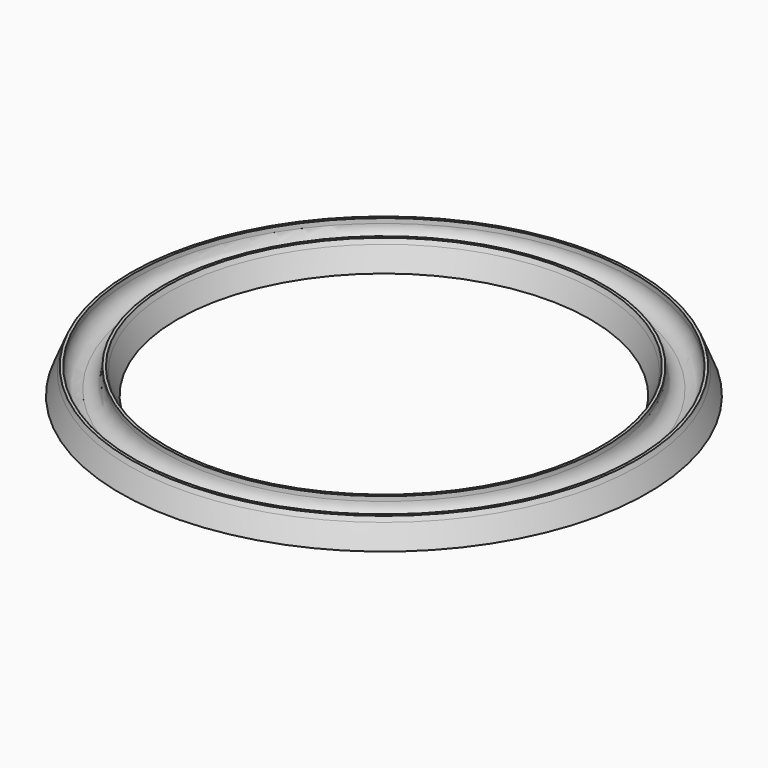
from build123d import *


with BuildPart() as f1:
    # F0 (on Front) → F1 (revolve)
    with BuildSketch(Plane.XZ):
        with BuildLine():
            ThreePointArc((-50, -3.25), (-52.298097, -2.298097), (-53.25, 0))
            Line((-53.25, 0), (-54.25, 0))
            Line((-54.25, 0), (-56.113961, -4.5))
            Line((-56.113961, -4.5), (-50, -4.5))
            Line((-50, -4.5), (-50, -3.25))
        make_face()
        with BuildLine():
            Line((-43.886039, -4.5), (-45.75, 0))
            Line((-45.75, 0), (-46.75, 0))
            ThreePointArc((-46.75, 0), (-47.701903, -2.298097), (-50, -3.25))
            Line((-50, -3.25), (-50, -4.5))
            Line((-50, -4.5), (-43.886039, -4.5))
        make_face()
        Polygon((-54.25, 0), (-53.25, 0), (-53.25, 1), (-53.835786, 1), align=None)
        Polygon((-46.75, 0), (-45.75, 0), (-46.164214, 1), (-46.75, 1), align=None)
    revolve(axis=Axis((0, 0, 4.949271), (0, 0, 1)))


solid = f1.part
